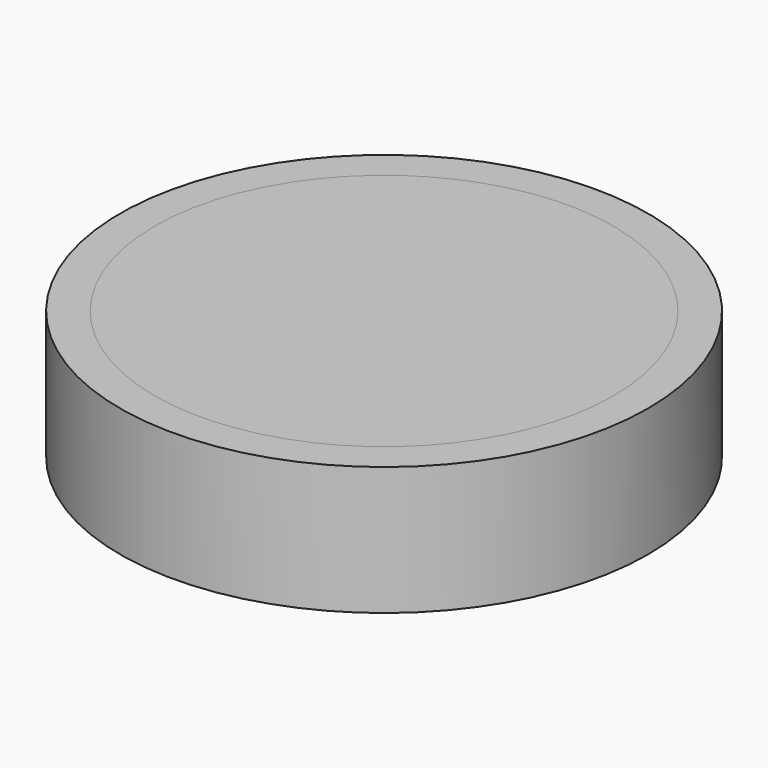
from build123d import *

# Parameters (mm, degrees)
F1_R      = 7.3025
F1_R_2    = 6.35
F2_DEPTH  = 3.556
F4_R      = 6.35
F4_R_2    = 4.064
F5_DEPTH  = 3.302
F7_R      = 4.064
F7_R_2    = 3.048
F8_DEPTH  = 3.048
F10_R     = 3.048
F10_R_2   = 1.016
F11_DEPTH = 2.794
F13_R     = 1.016
F13_R_2   = 0.254
F14_DEPTH = 2.54
F15_R     = 0.2515062582
F16_DEPTH = 2.286
F17_R     = 6.35
F18_DEPTH = 1.27


with BuildPart() as f2:
    # F1 (on face) → F2 (new body)
    with BuildSketch(Plane.XY):
        Circle(F1_R)
        Circle(F1_R_2, mode=Mode.SUBTRACT)
    extrude(amount=F2_DEPTH)


with BuildPart() as f5:
    # F4 (on face) → F5 (new body)
    with BuildSketch(Plane.XY):
        Circle(F4_R)
        Circle(F4_R_2, mode=Mode.SUBTRACT)
    extrude(amount=F5_DEPTH)


with BuildPart() as f8:
    # F7 (on face) → F8 (new body)
    with BuildSketch(Plane.XY):
        Circle(F7_R)
        Circle(F7_R_2, mode=Mode.SUBTRACT)
    extrude(amount=F8_DEPTH)


with BuildPart() as f11:
    # F10 (on face) → F11 (new body)
    with BuildSketch(Plane.XY):
        Circle(F10_R)
        Circle(F10_R_2, mode=Mode.SUBTRACT)
    extrude(amount=F11_DEPTH)


with BuildPart() as f14:
    # F13 (on face) → F14 (new body)
    with BuildSketch(Plane.XY):
        Circle(F13_R)
        Circle(F13_R_2, mode=Mode.SUBTRACT)
    extrude(amount=F14_DEPTH)


with BuildPart() as f16:
    # F15 (on Top) → F16 (new body)
    with BuildSketch(Plane.XY):
        Circle(F15_R)
    extrude(amount=F16_DEPTH)


with BuildPart() as f18:
    # F17 (on face) → F18 (new body)
    with BuildSketch(Plane.XY.offset(2.286)):
        Circle(F17_R)
    extrude(amount=F18_DEPTH)


solid = Compound([f2.part, f5.part, f8.part, f11.part, f14.part, f16.part, f18.part])
